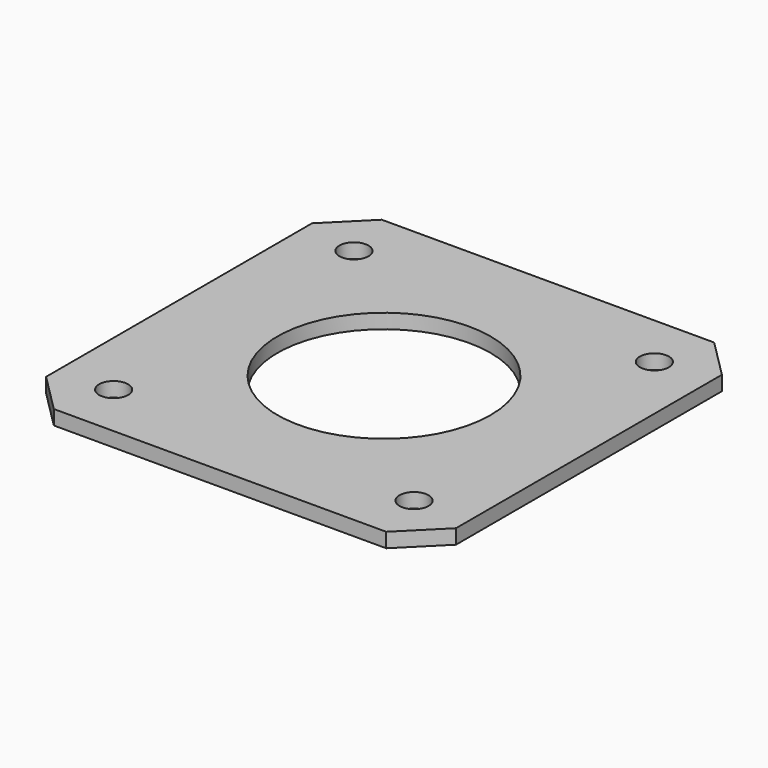
from build123d import *

# Parameters (mm, degrees)
SKETCH_W      = 42.3
SKETCH_H      = 42.3
PAD_DEPTH     = 1.5
CHAMFER_SIZE  = 4
SKETCH001_R   = 11
SKETCH001_R_2 = 1.5
POCKET_DEPTH  = 5


with BuildPart() as part:
    # Sketch → Pad (new body)
    with BuildSketch(Plane.XY):
        Rectangle(SKETCH_W, SKETCH_H)
    extrude(amount=PAD_DEPTH)

    # Chamfer
    chamfer_edges = [part.edges().sort_by_distance(p)[0] for p in [
        (21.15, -21.15, 0.75),
        (21.15, 21.15, 0.75),
        (-21.15, -21.15, 0.75),
        (-21.15, 21.15, 0.75),
    ]]
    chamfer(chamfer_edges, length=CHAMFER_SIZE)

    # Sketch001 → Pocket (cut)
    with BuildSketch(Plane.XY.offset(1.5)):
        Circle(SKETCH001_R)
        with Locations((-15.5, 15.5)):
            Circle(SKETCH001_R_2)
        with Locations((15.5, 15.5)):
            Circle(SKETCH001_R_2)
        with Locations((-15.5, -15.5)):
            Circle(SKETCH001_R_2)
        with Locations((15.5, -15.5)):
            Circle(SKETCH001_R_2)
    extrude(amount=-POCKET_DEPTH, mode=Mode.SUBTRACT)


solid = part.part
